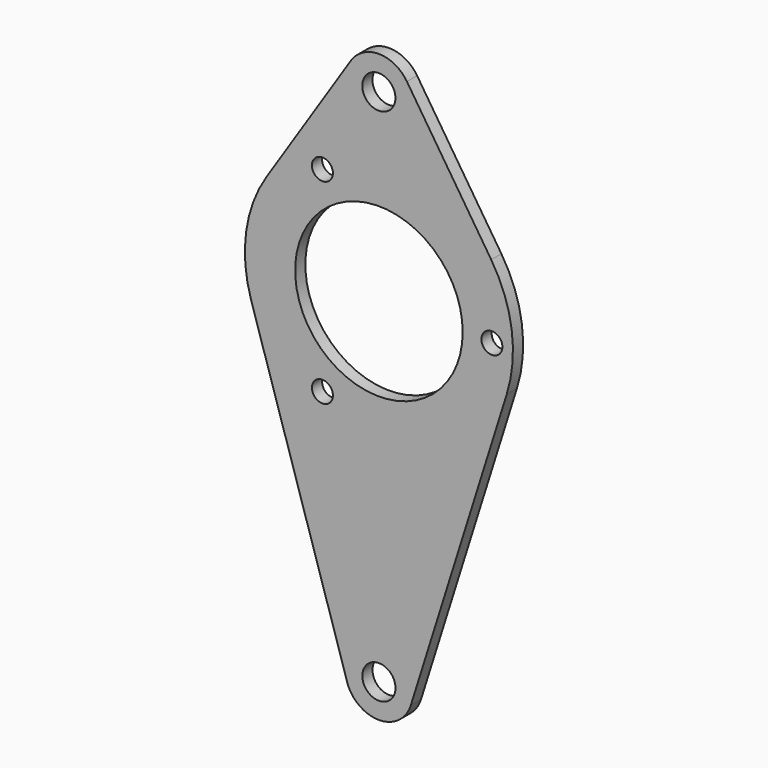
from build123d import *

# Parameters (mm, degrees)
F0_R     = 6.2865
F0_R_2   = 3.9751
F0_R_3   = 31.75
F1_DEPTH = 2.413


with BuildPart() as f1:
    # F0 (on Front) → F1 (new body, symmetric)
    with BuildSketch(Plane.XZ):
        with BuildLine():
            Line((42.5662135777, 27.7264758246), (10.6130252204, 76.7816189562))
            ThreePointArc((10.6130252204, 76.7816189562), (-0.0337151144, 82.5499989408), (-10.6757400484, 76.7729241873))
            Line((-10.6757400484, 76.7729241873), (-42.5888474972, 27.6916967494))
            ThreePointArc((-42.5888474972, 27.6916967494), (-50.3329211177, 6.8729216323), (-48.4538530673, -15.259886072))
            Line((-48.4538530673, -15.259886072), (-12.4032720404, -129.7292568021))
            ThreePointArc((-12.4032720404, -129.7292568021), (-0.5592607997, -139.6876801409), (12.115027858, -130.81))
            Line((12.115027858, -130.81), (48.460111432, -15.24))
            ThreePointArc((48.460111432, -15.24), (50.3286943243, 6.9038052992), (42.5662135777, 27.7264758246))
        make_face()
        with Locations((0, -127)):
            Circle(F0_R, mode=Mode.SUBTRACT)
        with Locations((-21.4091917708, -37.081807896)):
            Circle(F0_R_2, mode=Mode.SUBTRACT)
        Circle(F0_R_3, mode=Mode.SUBTRACT)
        with Locations((-21.4091917708, 37.081807896)):
            Circle(F0_R_2, mode=Mode.SUBTRACT)
        with Locations((-0.0285281741, 69.85)):
            Circle(F0_R, mode=Mode.SUBTRACT)
        with BuildLine():
            ThreePointArc((42.8467917708, 3.9686483259), (45.6347394958, 2.7962681741), (46.7871335416, 0))
            ThreePointArc((46.7871335416, 0), (45.6347394958, -2.7962681741), (42.8467917708, -3.9686483259))
            ThreePointArc((42.8467917708, -3.9686483259), (38.8496335416, 0), (42.8467917708, 3.9686483259))
        make_face(mode=Mode.SUBTRACT)
    extrude(amount=F1_DEPTH, both=True)


solid = f1.part
